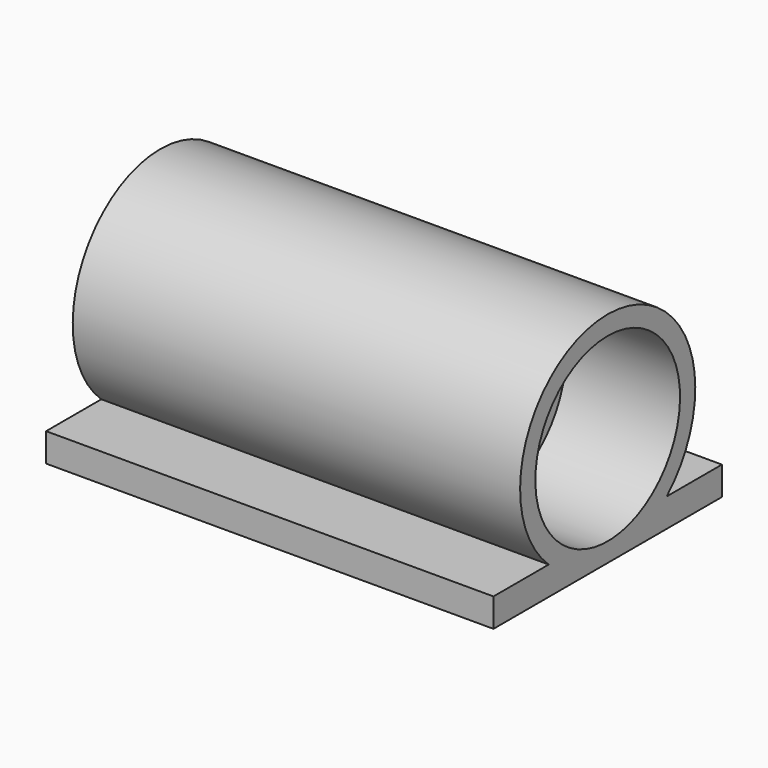
from build123d import *

# Parameters (mm, degrees)
F3_DEPTH = 9
F5_DEPTH = 47


with BuildPart() as f1:
    # F0 (on Front) → F1 (revolve)
    with BuildSketch(Plane.XZ):
        Polygon((-5.6564239193, 9.5), (-5.6564239193, 7.5), (19.3435760807, 7.5), (19.3435760807, 9.5), (31.3435760807, 9.5), (31.3435760807, 11.5), (-15.6564239193, 11.5), (-15.6564239193, 9.5), align=None)
    revolve(axis=Axis((2.8128489057, 0, 0), (1, 0, 0)))

    # F2 (on face) → F3 (join)
    with BuildSketch(Plane.YZ.offset(19.3435760807)):
        with BuildLine():
            Line((0, 7.5), (0, 9.5))
            ThreePointArc((0, 9.5), (-1.2098512295, 9.4226461253), (-2.4, 9.191844211))
            Line((-2.4, 9.191844211), (-2.4, 7.5))
            Line((-2.4, 7.5), (0, 7.5))
        make_face()
        with BuildLine():
            ThreePointArc((2.4, 9.191844211), (1.2098512295, 9.4226461253), (0, 9.5))
            Line((0, 9.5), (0, 7.5))
            Line((0, 7.5), (2.4, 7.5))
            Line((2.4, 7.5), (2.4, 9.191844211))
        make_face()
    extrude(amount=F3_DEPTH)

    # F4 (on face) → F5 (join, through all)
    with BuildSketch(Plane.YZ.offset(31.3435760807)):
        with BuildLine():
            Line((-15, -11.5), (0, -11.5))
            ThreePointArc((0, -11.5), (-4.1533119315, -10.7238052948), (-7.7459666924, -8.5))
            Line((-7.7459666924, -8.5), (-15, -8.5))
            Line((-15, -8.5), (-15, -11.5))
        make_face()
        with BuildLine():
            ThreePointArc((7.7459666924, -8.5), (4.1533119315, -10.7238052948), (0, -11.5))
            Line((0, -11.5), (15, -11.5))
            Line((15, -11.5), (15, -8.5))
            Line((15, -8.5), (7.7459666924, -8.5))
        make_face()
    extrude(amount=-F5_DEPTH)


solid = f1.part
